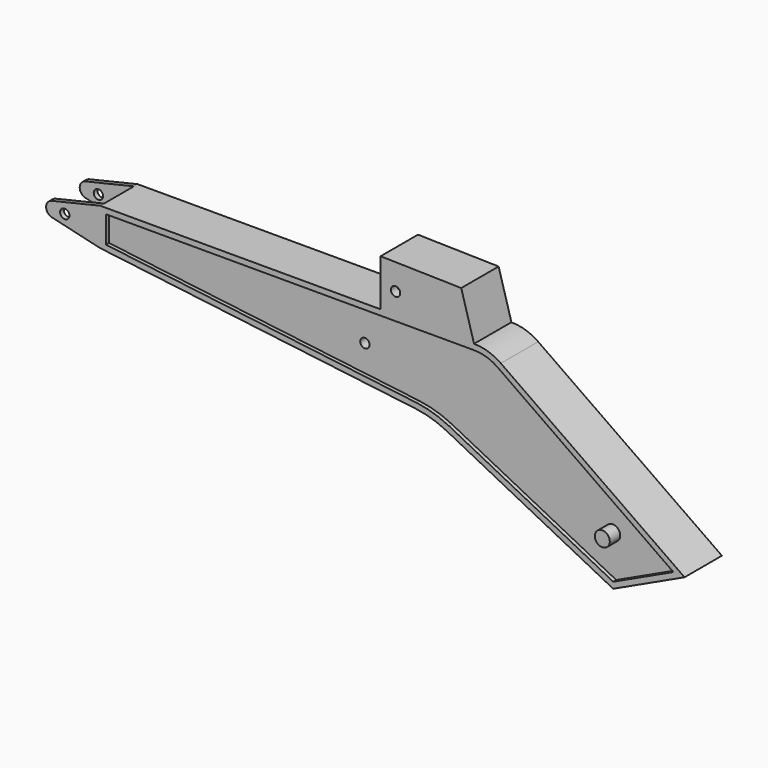
from build123d import *

# Parameters (mm, degrees)
F1_DEPTH  = 25
F3_DEPTH  = 2
F5_DEPTH  = 2
F6_DEPTH  = 25
F7_W      = 50
F7_H      = 20
F8_DEPTH  = 20.001
F9_R      = 2.5
F10_DEPTH = 25.001
F12_DEPTH = 25
F14_R     = 8.25
F15_DEPTH = 20
F16_R     = 2.5
F17_DEPTH = 25
F18_R     = 2.5
F19_DEPTH = 25
F21_R     = 4
F22_DEPTH = 17.5
F23_R     = 2.5
F24_DEPTH = 12.5


with BuildPart() as f1:
    # F0 (on Front) → F1 (new body)
    with BuildSketch(Plane.XZ):
        with BuildLine():
            Line((200, 20), (0, 20))
            Line((0, 20), (0, 0))
            Line((0, 0), (168.732845779, -20.7177883789))
            ThreePointArc((168.732845779, -20.7177883789), (177.2579638449, -22.5298581628), (185.3389035957, -25.7947697515))
            Line((185.3389035957, -25.7947697515), (274.4395560146, -71.1938197255))
            Line((274.4395560146, -71.1938197255), (312.6376562235, -53.3503712549))
            Line((312.6376562235, -53.3503712549), (214.3394109088, 15.4788011072))
            ThreePointArc((214.3394109088, 15.4788011072), (207.5176449876, 18.8429237687), (200, 20))
        make_face()
    extrude(amount=-F1_DEPTH)

    # F2 (on face) → F3 (cut)
    with BuildSketch(Plane.XZ):
        with BuildLine():
            ThreePointArc((169.0984538092, -17.740149924), (178.1350789591, -19.6609438949), (186.700875095, -23.121750179))
            Line((186.700875095, -23.121750179), (274.4966924755, -67.8559534935))
            Line((274.4966924755, -67.8559534935), (306.6638017347, -52.829757076))
            Line((306.6638017347, -52.829757076), (212.6186815997, 13.0213449744))
            ThreePointArc((212.6186815997, 13.0213449744), (206.6155275891, 15.9817729165), (200, 17))
            Line((200, 17), (3, 17))
            Line((3, 17), (3, 2.6541757937))
            Line((3, 2.6541757937), (169.0984538092, -17.740149924))
        make_face()
    extrude(amount=-F3_DEPTH, mode=Mode.SUBTRACT)

    # F4 (on face) → F5 (cut)
    with BuildSketch(Plane(origin=(0, 25, 0), x_dir=(-1, 0, 0), z_dir=(0, 1, 0))):
        with BuildLine():
            ThreePointArc((-200, 17), (-206.6155275891, 15.9817729165), (-212.6186815997, 13.0213449744))
            Line((-212.6186815997, 13.0213449744), (-306.6638017347, -52.829757076))
            Line((-306.6638017347, -52.829757076), (-274.4966924755, -67.8559534935))
            Line((-274.4966924755, -67.8559534935), (-186.700875095, -23.121750179))
            ThreePointArc((-186.700875095, -23.121750179), (-178.1350789591, -19.6609438949), (-169.0984538092, -17.740149924))
            Line((-169.0984538092, -17.740149924), (-3, 2.6541757937))
            Line((-3, 2.6541757937), (-3, 17))
            Line((-3, 17), (-200, 17))
        make_face()
    extrude(amount=-F5_DEPTH, mode=Mode.SUBTRACT)

    # F0 (on Front) → F6 (join)
    with BuildSketch(Plane.XZ):
        with BuildLine():
            Line((0, 0), (0, 20))
            Line((0, 20), (-25.9173546986, 13.8933867464))
            ThreePointArc((-25.9173546986, 13.8933867464), (-29, 10), (-25.9173546986, 6.1066132536))
            Line((-25.9173546986, 6.1066132536), (0, 0))
        make_face()
    extrude(amount=-F6_DEPTH)

    # F7 (on Top) → F8 (cut, through all)
    with BuildSketch(Plane.XY):
        with Locations((-25, 12.5)):
            Rectangle(F7_W, F7_H)
    extrude(amount=F8_DEPTH, mode=Mode.SUBTRACT)

    # F9 (on Front) → F10 (cut, through all)
    with BuildSketch(Plane.XZ):
        with Locations((-19, 10)):
            Circle(F9_R)
    extrude(amount=-F10_DEPTH, mode=Mode.SUBTRACT)

    # F11 (on Front) → F12 (join)
    with BuildSketch(Plane.XZ):
        Polygon((150, 45), (150, 20), (200, 20), (193.1540331912, 44.0443909977), align=None)
    extrude(amount=-F12_DEPTH)

    # F14 (on face) → F15 (cut)
    with BuildSketch(Plane(origin=(150, 0, 0), x_dir=(0, -1, 0), z_dir=(-1, 0, 0))):
        with Locations((-12.5, 31.5)):
            Circle(F14_R)
    extrude(amount=-F15_DEPTH, mode=Mode.SUBTRACT)

    # F16 (on face) → F17 (cut)
    with BuildSketch(Plane.XZ):
        with Locations((144.0621566447, 31.638596327)):
            Circle(F16_R)
    extrude(amount=-F17_DEPTH, mode=Mode.SUBTRACT)

    # F18 (on face) → F19 (cut)
    with BuildSketch(Plane.XZ):
        with Locations((158, 31)):
            Circle(F18_R)
    extrude(amount=-F19_DEPTH, mode=Mode.SUBTRACT)

    # F21 (on offset) → F22 (join, symmetric)
    with BuildSketch(Plane.XZ.offset(-12.5)):
        with Locations((272.6376562235, -46.1938197255)):
            Circle(F21_R)
    extrude(amount=F22_DEPTH, both=True)

    # F23 (on offset) → F24 (cut, symmetric)
    with BuildSketch(Plane.XZ.offset(-12.5)):
        with Locations((140, 0)):
            Circle(F23_R)
    extrude(amount=F24_DEPTH, both=True, mode=Mode.SUBTRACT)


solid = f1.part
